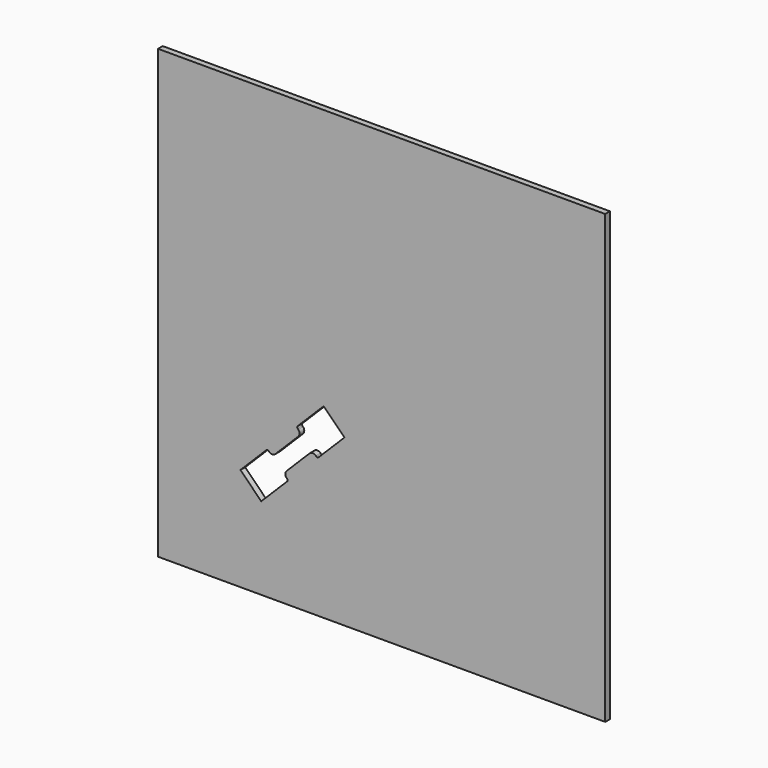
from build123d import *

# Parameters (mm, degrees)
F0_W     = 152
F0_H     = 152
F1_DEPTH = 2
F2_DEPTH = 2


with BuildPart() as f1:
    # F0 (on Front) → F1 (new body)
    with BuildSketch(Plane.XZ):
        with Locations((76, 76)):
            Rectangle(F0_W, F0_H)
        with BuildLine():
            Line((43.909903, 36.838835), (35.071068, 28))
            Line((35.071068, 28), (28, 35.071068))
            Line((28, 35.071068), (36.838835, 43.909903))
            ThreePointArc((36.838835, 43.909903), (37.192388, 44.056349), (37.545942, 43.909903))
            Line((37.545942, 43.909903), (37.758074, 43.697771))
            ThreePointArc((37.758074, 43.697771), (38.818734, 43.258431), (39.879394, 43.697771))
            Line((39.879394, 43.697771), (47.657569, 51.475945))
            ThreePointArc((47.657569, 51.475945), (48.096908, 52.536605), (47.657569, 53.597265))
            Line((47.657569, 53.597265), (47.445436, 53.809398))
            ThreePointArc((47.445436, 53.809398), (47.29899, 54.162951), (47.445436, 54.516504))
            Line((47.445436, 54.516504), (56.284271, 63.355339))
            Line((56.284271, 63.355339), (63.355339, 56.284271))
            Line((63.355339, 56.284271), (54.516504, 47.445436))
            ThreePointArc((54.516504, 47.445436), (54.162951, 47.29899), (53.809398, 47.445436))
            Line((53.809398, 47.445436), (53.597265, 47.657569))
            ThreePointArc((53.597265, 47.657569), (52.536605, 48.096908), (51.475945, 47.657569))
            Line((51.475945, 47.657569), (43.697771, 39.879394))
            ThreePointArc((43.697771, 39.879394), (43.258431, 38.818734), (43.697771, 37.758074))
            Line((43.697771, 37.758074), (43.909903, 37.545942))
            ThreePointArc((43.909903, 37.545942), (44.056349, 37.192388), (43.909903, 36.838835))
        make_face(mode=Mode.SUBTRACT)
    extrude(amount=F1_DEPTH)

    # F0 (on Front) → F2 (cut)
    with BuildSketch(Plane.XZ):
        with BuildLine():
            Line((28, 35.071068), (35.071068, 28))
            Line((35.071068, 28), (43.909903, 36.838835))
            ThreePointArc((43.909903, 36.838835), (44.056349, 37.192388), (43.909903, 37.545942))
            Line((43.909903, 37.545942), (43.697771, 37.758074))
            ThreePointArc((43.697771, 37.758074), (43.258431, 38.818734), (43.697771, 39.879394))
            Line((43.697771, 39.879394), (51.475945, 47.657569))
            ThreePointArc((51.475945, 47.657569), (52.536605, 48.096908), (53.597265, 47.657569))
            Line((53.597265, 47.657569), (53.809398, 47.445436))
            ThreePointArc((53.809398, 47.445436), (54.162951, 47.29899), (54.516504, 47.445436))
            Line((54.516504, 47.445436), (63.355339, 56.284271))
            Line((63.355339, 56.284271), (56.284271, 63.355339))
            Line((56.284271, 63.355339), (47.445436, 54.516504))
            ThreePointArc((47.445436, 54.516504), (47.29899, 54.162951), (47.445436, 53.809398))
            Line((47.445436, 53.809398), (47.657569, 53.597265))
            ThreePointArc((47.657569, 53.597265), (48.096908, 52.536605), (47.657569, 51.475945))
            Line((47.657569, 51.475945), (39.879394, 43.697771))
            ThreePointArc((39.879394, 43.697771), (38.818734, 43.258431), (37.758074, 43.697771))
            Line((37.758074, 43.697771), (37.545942, 43.909903))
            ThreePointArc((37.545942, 43.909903), (37.192388, 44.056349), (36.838835, 43.909903))
            Line((36.838835, 43.909903), (28, 35.071068))
        make_face()
    extrude(amount=F2_DEPTH, mode=Mode.SUBTRACT)


solid = f1.part
